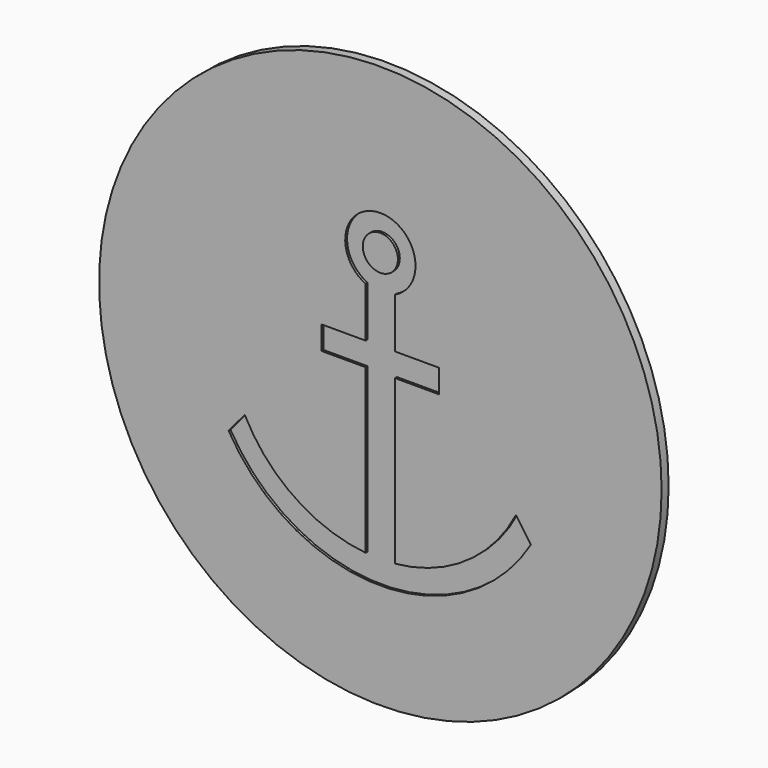
from build123d import *

# Parameters (mm, degrees)
F0_R     = 24
F1_DEPTH = 0.75
F2_R     = 1.5
F3_DEPTH = 0.2


with BuildPart() as f1:
    # F0 (on Front) → F1 (new body)
    with BuildSketch(Plane.XZ):
        Circle(F0_R)
    extrude(amount=F1_DEPTH)

    # F2 (on face) → F3 (cut)
    with BuildSketch(Plane.XZ.offset(0.75)):
        with BuildLine():
            Line((-11.569383, -5.928692), (-12.948437, -7.572185))
            ThreePointArc((-12.948437, -7.572185), (-0.102927, -14.999647), (12.843303, -7.749166))
            Line((12.843303, -7.749166), (11.569383, -5.928692))
            ThreePointArc((11.569383, -5.928692), (7.305678, -10.753003), (1.25, -12.939764))
            Line((1.25, -12.939764), (1.25, 1))
            Line((1.25, 1), (5, 1))
            Line((5, 1), (5, 3))
            Line((5, 3), (1.25, 3))
            Line((1.25, 3), (1.25, 7.272822))
            ThreePointArc((1.25, 7.272822), (0, 13), (-1.25, 7.272822))
            Line((-1.25, 7.272822), (-1.25, 3))
            Line((-1.25, 3), (-5, 3))
            Line((-5, 3), (-5, 1))
            Line((-5, 1), (-1.25, 1))
            Line((-1.25, 1), (-1.25, -12.939764))
            ThreePointArc((-1.25, -12.939764), (-7.305678, -10.753003), (-11.569383, -5.928692))
        make_face()
        with Locations((0, 10)):
            Circle(F2_R, mode=Mode.SUBTRACT)
    extrude(amount=-F3_DEPTH, mode=Mode.SUBTRACT)


solid = f1.part
